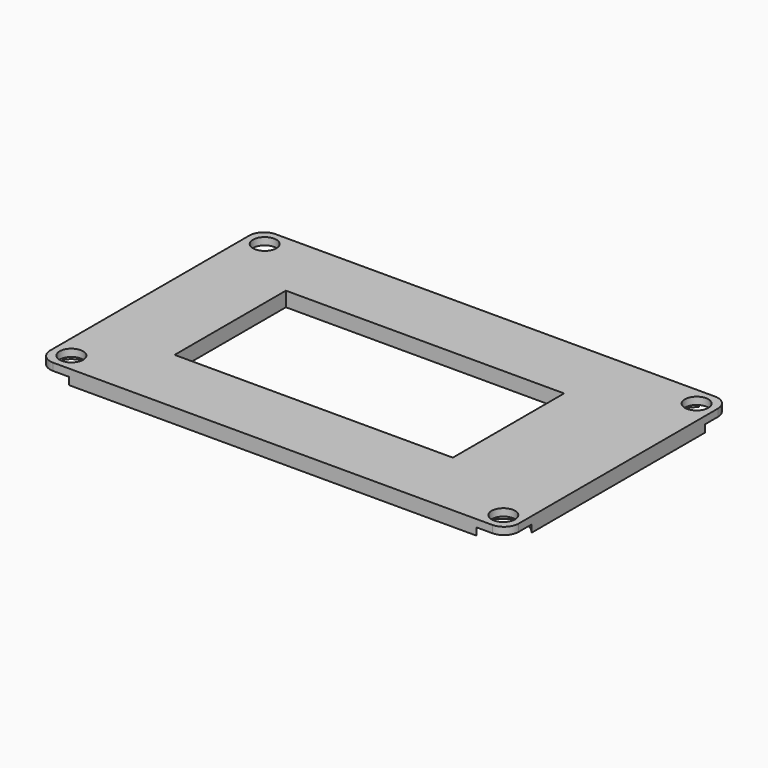
from build123d import *

# Parameters (mm, degrees)
F0_W           = 64
F0_H           = 38
F0_W_2         = 38
F0_H_2         = 19
F1_DEPTH       = 2
F2_R           = 2
F4_D           = 3.2
F4_CBORE_D     = 6
F4_CBORE_DEPTH = 1


with BuildPart() as f1:
    # F0 (on Top) → F1 (new body)
    with BuildSketch(Plane.XY):
        with Locations((32, 19)):
            Rectangle(F0_W, F0_H)
        with Locations((30, 19)):
            Rectangle(F0_W_2, F0_H_2, mode=Mode.SUBTRACT)
    extrude(amount=F1_DEPTH)

    # F2
    f2_edges = [f1.edges().sort_by_distance(p)[0] for p in [
        (0, 38, 1),
        (0, 0, 1),
        (64, 0, 1),
        (64, 38, 1),
    ]]
    fillet(f2_edges, radius=F2_R)

    # F4 (through all)
    with Locations(Plane(origin=(0, 0, 0), x_dir=(1, 0, 0), z_dir=(0, 0, -1))):
        with Locations((2.5, -2.5), (2.5, -35.5), (61.5, -35.5), (61.5, -2.5)):
            CounterBoreHole(F4_D / 2, F4_CBORE_D / 2, F4_CBORE_DEPTH)


solid = f1.part
